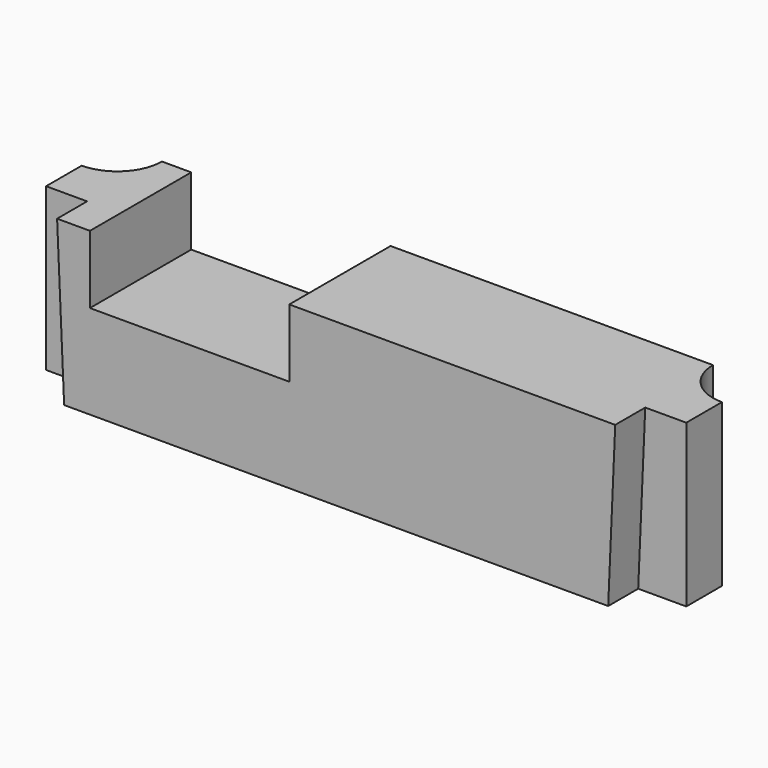
from build123d import *

# Parameters (mm, degrees)
SKETCH002_W = 8.5
SKETCH002_H = 2.9
SKETCH003_W = 8.5
SKETCH003_H = 2.9


with BuildPart() as part:
    # Sketch001 → AdditiveLoft section 0
    with BuildSketch(Plane.XY.offset(6.9)):
        with BuildLine():
            Line((-11.9, -5.4), (11.9, -5.4))
            Line((11.9, -5.4), (11.9, -3.8))
            Line((11.9, -3.8), (13.65, -3.8))
            Line((13.65, -3.8), (13.65, -1.9))
            ThreePointArc((11.75, 0), (12.306497, -1.343503), (13.65, -1.9))
            Line((-11.75, 0), (11.75, 0))
            ThreePointArc((-13.65, -1.9), (-12.306497, -1.343503), (-11.75, 0))
            Line((-13.65, -3.8), (-13.65, -1.9))
            Line((-11.9, -3.8), (-13.65, -3.8))
            Line((-11.9, -5.4), (-11.9, -3.8))
        make_face()
    # Sketch → AdditiveLoft section 1
    with BuildSketch(Plane.XY):
        with BuildLine():
            Line((-11.6, -5.4), (11.6, -5.4))
            Line((11.6, -5.4), (11.6, -3.8))
            Line((11.6, -3.8), (13.65, -3.8))
            Line((13.65, -3.8), (13.65, -1.9))
            ThreePointArc((11.75, 0), (12.306497, -1.343503), (13.65, -1.9))
            Line((-11.75, 0), (11.75, 0))
            ThreePointArc((-13.65, -1.9), (-12.306497, -1.343503), (-11.75, 0))
            Line((-13.65, -3.8), (-13.65, -1.9))
            Line((-11.6, -3.8), (-13.65, -3.8))
            Line((-11.6, -5.4), (-11.6, -3.8))
        make_face()
    loft()

    # Sketch002 → SubtractiveLoft section 0
    with BuildSketch(Plane.XZ):
        with Locations((-6.25, 5.45)):
            Rectangle(SKETCH002_W, SKETCH002_H)
    # Sketch003 → SubtractiveLoft section 1
    with BuildSketch(Plane.XZ.offset(5.4)):
        with Locations((-6.25, 5.45)):
            Rectangle(SKETCH003_W, SKETCH003_H)
    loft(mode=Mode.SUBTRACT)


solid = part.part
